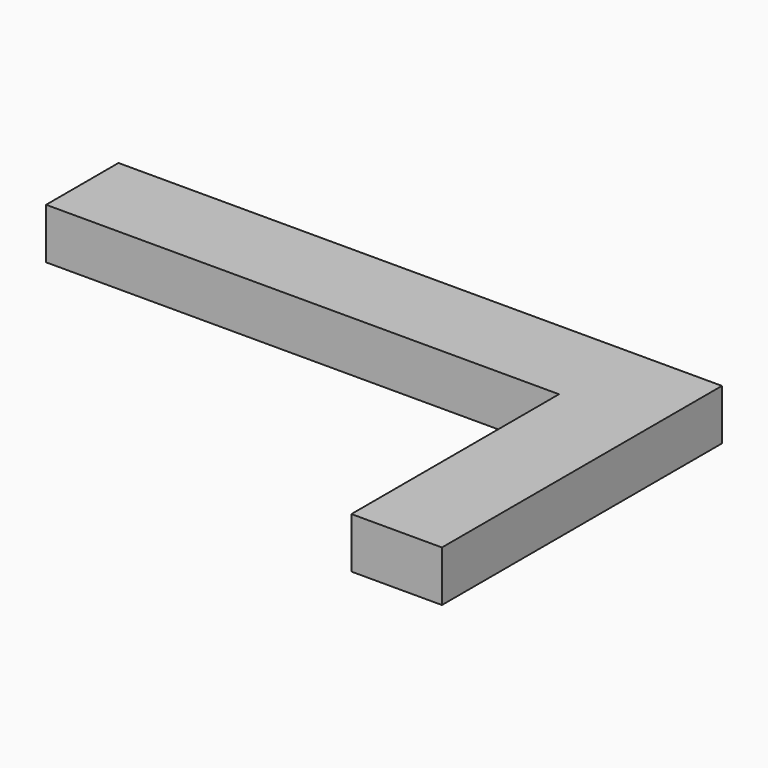
from build123d import *

# Parameters (mm, degrees)
F0_W     = 42.5
F0_H     = 7.5
F0_W_2   = 7.5
F0_H_2   = 21.5
F1_DEPTH = 4.2
F2_DEPTH = 4.2


with BuildPart() as f1:
    # F0 (on Top) → F1 (new body)
    with BuildSketch(Plane.XY):
        with Locations((-3.75, 0)):
            Rectangle(F0_W, F0_H)
        with Locations((21.25, 0)):
            Rectangle(F0_W_2, F0_H)
        with Locations((21.25, -14.5)):
            Rectangle(F0_W_2, F0_H_2)
    extrude(amount=F1_DEPTH)

    # F0 (on Top) → F2 (join)
    with BuildSketch(Plane.XY):
        with Locations((-3.75, 0)):
            Rectangle(F0_W, F0_H)
        with Locations((21.25, 0)):
            Rectangle(F0_W_2, F0_H)
        with Locations((21.25, -14.5)):
            Rectangle(F0_W_2, F0_H_2)
    extrude(amount=F2_DEPTH)


solid = f1.part
